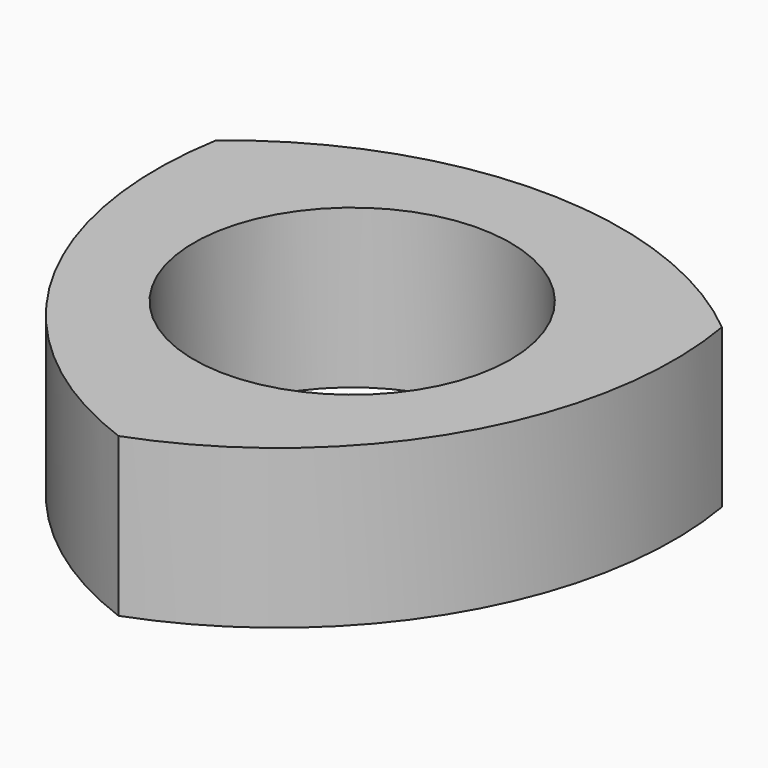
from build123d import *

# Parameters (mm, degrees)
F1_DEPTH = 20
F2_R     = 20
F3_DEPTH = 20


with BuildPart() as f1:
    # F0 (on Top) → F1 (new body)
    with BuildSketch(Plane.XY):
        with BuildLine():
            ThreePointArc((31.959938, 18.452079), (0, 30), (-31.959938, 18.452079))
            ThreePointArc((-31.959938, 18.452079), (-25.980762, -15), (0, -36.904158))
            ThreePointArc((0, -36.904158), (25.980762, -15), (31.959938, 18.452079))
        make_face()
    extrude(amount=F1_DEPTH)

    # F2 (on face) → F3 (cut)
    with BuildSketch(Plane(origin=(0, 0, 0), x_dir=(1, 0, 0), z_dir=(0, 0, -1))):
        Circle(F2_R)
    extrude(amount=-F3_DEPTH, mode=Mode.SUBTRACT)


solid = f1.part
